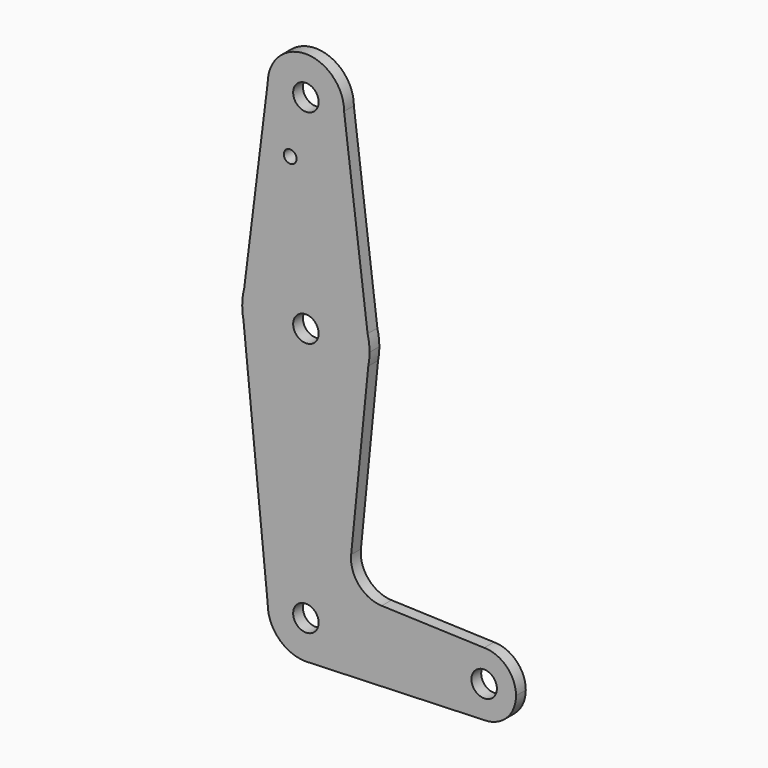
from build123d import *

# Parameters (mm, degrees)
F0_R     = 3.175
F0_R_2   = 1.5875
F1_DEPTH = 3.048


with BuildPart() as f1:
    # F0 (on Front) → F1 (new body)
    with BuildSketch(Plane.XZ):
        with BuildLine():
            ThreePointArc((-633.9017244989, 310.0058347297), (-624.4327813295, 300.370173576), (-614.8523692237, 309.8950123934))
            ThreePointArc((-614.8523692237, 309.8950123934), (-624.3219571178, 319.4198512109), (-633.9017244989, 310.0058347297))
        make_face()
        with Locations((-624.3773692237, 309.8950123934)):
            Circle(F0_R, mode=Mode.SUBTRACT)
        with BuildLine():
            Line((-608.9908307621, 263.0027047011), (-614.8523692237, 309.8950123934))
            ThreePointArc((-614.8523692237, 309.8950123934), (-624.4327813295, 300.370173576), (-633.9017244989, 310.0058347297))
            Line((-633.9017244989, 310.0058347297), (-639.7487588368, 263.0618759355))
            ThreePointArc((-639.7487588368, 263.0618759355), (-624.346829403, 274.9699830176), (-608.9908307621, 263.0027047011))
        make_face()
        with Locations((-628.2885074615, 295.6202123934)):
            Circle(F0_R_2, mode=Mode.SUBTRACT)
        with BuildLine():
            Line((-608.5023692237, 259.0950123934), (-608.9908307621, 263.0027047011))
            ThreePointArc((-608.9908307621, 263.0027047011), (-624.346829403, 274.9699830176), (-639.7487588368, 263.0618759355))
            Line((-639.7487588368, 263.0618759355), (-640.2521918755, 259.0199739281))
            Line((-640.2521918755, 259.0199739281), (-639.9508061421, 256.0154527582))
            ThreePointArc((-639.9508061421, 256.0154527582), (-624.4100046118, 243.2200459389), (-608.8167256593, 255.951448037))
            Line((-608.8167256593, 255.951448037), (-608.5023692237, 259.0950123934))
        make_face()
        with Locations((-624.3773692237, 259.0950123934)):
            Circle(F0_R, mode=Mode.SUBTRACT)
        with BuildLine():
            ThreePointArc((-608.5023692237, 259.0950123934), (-608.6249579308, 261.064063805), (-608.9908307621, 263.0027047011))
            Line((-608.9908307621, 263.0027047011), (-608.5023692237, 259.0950123934))
        make_face()
        with BuildLine():
            Line((-640.2521918755, 259.0199739281), (-639.7487588368, 263.0618759355))
            ThreePointArc((-639.7487588368, 263.0618759355), (-640.1306446985, 261.0571379789), (-640.2521918755, 259.0199739281))
        make_face()
        with BuildLine():
            ThreePointArc((-608.8167256593, 255.951448037), (-608.5811538291, 257.515390854), (-608.5023692237, 259.0950123934))
            Line((-608.5023692237, 259.0950123934), (-608.8167256593, 255.951448037))
        make_face()
        with BuildLine():
            Line((-639.9508061421, 256.0154527582), (-640.2521918755, 259.0199739281))
            ThreePointArc((-640.2521918755, 259.0199739281), (-640.1730978984, 257.5105312058), (-639.9508061421, 256.0154527582))
        make_face()
        with BuildLine():
            Line((-613.0937860812, 213.1808438176), (-608.8167256593, 255.951448037))
            ThreePointArc((-608.8167256593, 255.951448037), (-624.4100046118, 243.2200459389), (-639.9508061421, 256.0154527582))
            Line((-639.9508061421, 256.0154527582), (-633.9016585555, 195.7113641157))
            ThreePointArc((-633.9016585555, 195.7113641157), (-624.3191922774, 205.1198347247), (-614.8523692237, 195.5950123934))
            ThreePointArc((-614.8523692237, 195.5950123934), (-617.4060791172, 189.104500915), (-623.6978787778, 186.0942799093))
            Line((-623.6978787778, 186.0942799093), (-579.9273692237, 187.6575123934))
            ThreePointArc((-579.9273692237, 187.6575123934), (-587.8648692237, 195.5950123934), (-579.9273692237, 203.5325123934))
            Line((-579.9273692237, 203.5325123934), (-605.4667962175, 204.444634786))
            ThreePointArc((-605.4667962175, 204.444634786), (-611.1720139842, 207.1612047708), (-613.0937860812, 213.1808438176))
        make_face()
        with BuildLine():
            ThreePointArc((-614.8523692237, 195.5950123934), (-624.3191922774, 205.1198347247), (-633.9016585555, 195.7113641157))
            ThreePointArc((-633.9016585555, 195.7113641157), (-631.153572997, 188.9010832466), (-624.3773692237, 186.0700123934))
            Line((-624.3773692237, 186.0700123934), (-623.6978787778, 186.0942799093))
            ThreePointArc((-623.6978787778, 186.0942799093), (-617.4060791172, 189.104500915), (-614.8523692237, 195.5950123934))
        make_face()
        with Locations((-624.3773692237, 195.5950123934)):
            Circle(F0_R, mode=Mode.SUBTRACT)
        with BuildLine():
            Line((-623.6978787778, 186.0942799093), (-624.3773692237, 186.0700123934))
            ThreePointArc((-624.3773692237, 186.0700123934), (-624.0374073955, 186.0760812058), (-623.6978787778, 186.0942799093))
        make_face()
        with BuildLine():
            ThreePointArc((-571.9898692237, 195.5950123934), (-574.314709148, 201.2076724691), (-579.9273692237, 203.5325123934))
            ThreePointArc((-579.9273692237, 203.5325123934), (-587.8648692237, 195.5950123934), (-579.9273692237, 187.6575123934))
            ThreePointArc((-579.9273692237, 187.6575123934), (-574.314709148, 189.9823523177), (-571.9898692237, 195.5950123934))
        make_face()
        with Locations((-579.9273692237, 195.5950123934)):
            Circle(F0_R, mode=Mode.SUBTRACT)
    extrude(amount=F1_DEPTH)


solid = f1.part
